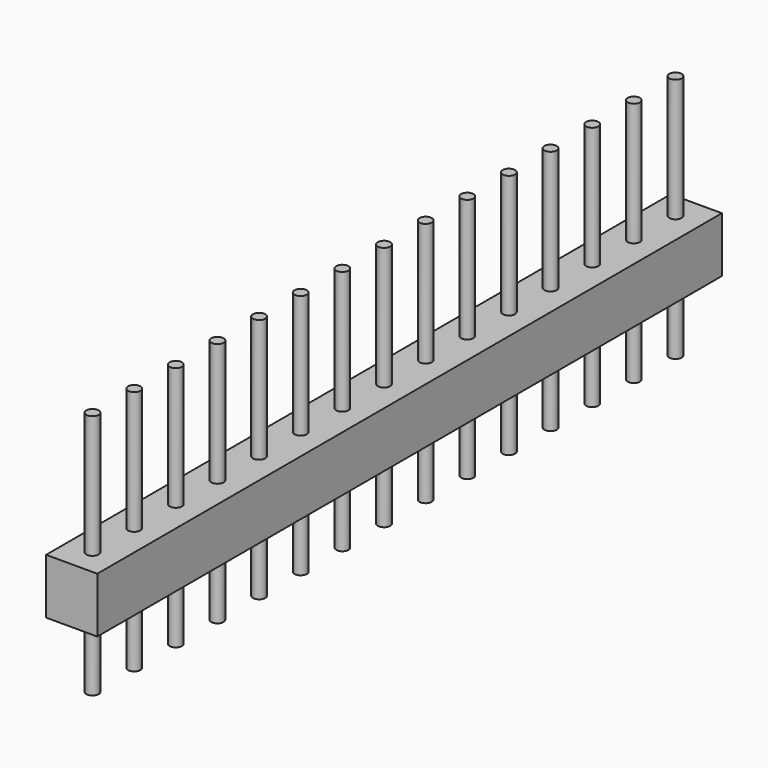
from build123d import *

# Parameters (mm, degrees)
F0_W          = 2.5
F0_H          = 38.1
F1_DEPTH      = 2.7
F2_R          = 0.3
F3_DEPTH      = 6
F3_DEPTH_BACK = 6


with BuildPart() as f1:
    # F0 (on Top) → F1 (new body)
    with BuildSketch(Plane.XY):
        with Locations((0, 8.102494)):
            Rectangle(F0_W, F0_H)
    extrude(amount=F1_DEPTH)


with BuildPart() as f3:
    # F2 (on face) → F3 (new body, two sides)
    with BuildSketch(Plane.XY.offset(2.7)) as f3_sk:
        with Locations((0, 25.882494)):
            Circle(F2_R)
        with Locations((0, 23.342494)):
            Circle(F2_R)
        with Locations((0, 20.802494)):
            Circle(F2_R)
        with Locations((0, 18.262494)):
            Circle(F2_R)
        with Locations((0, 15.722494)):
            Circle(F2_R)
        with Locations((0, 13.182494)):
            Circle(F2_R)
        with Locations((0, 10.642494)):
            Circle(F2_R)
        with Locations((0, 8.102494)):
            Circle(F2_R)
        with Locations((0, 5.562494)):
            Circle(F2_R)
        with Locations((0, 3.022494)):
            Circle(F2_R)
        with Locations((0, 0.482494)):
            Circle(F2_R)
        with Locations((0, -2.057506)):
            Circle(F2_R)
        with Locations((0, -4.597506)):
            Circle(F2_R)
        with Locations((0, -7.137506)):
            Circle(F2_R)
        with Locations((0, -9.677506)):
            Circle(F2_R)
    extrude(amount=F3_DEPTH)
    extrude(f3_sk.sketch, amount=-F3_DEPTH_BACK)


solid = Compound([f1.part, f3.part])
